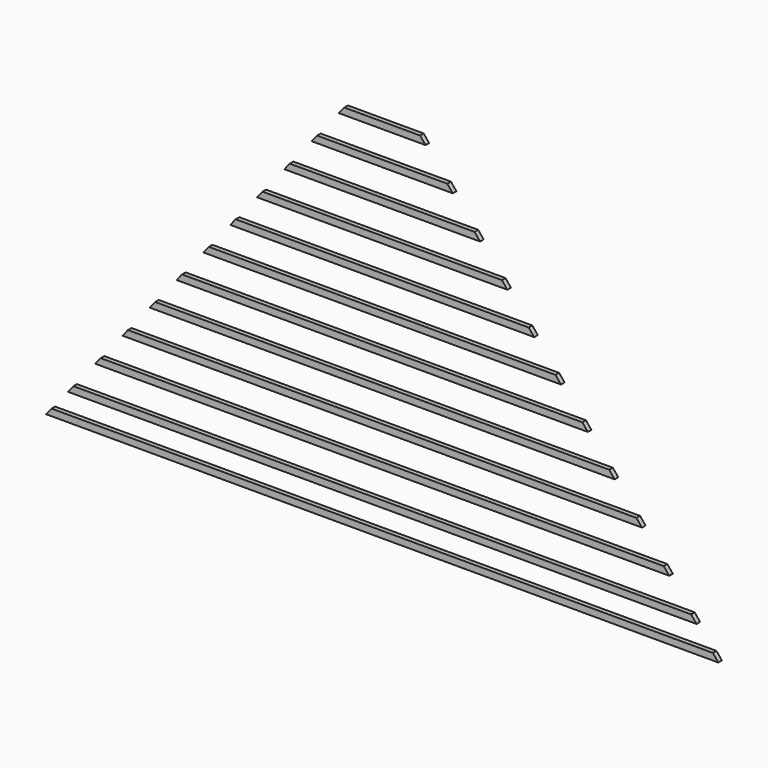
from build123d import *

# Parameters (mm, degrees)
F1_DEPTH = 40


with BuildPart() as f1:
    # F0 (on Front) → F1 (new body)
    with BuildSketch(Plane.XZ):
        Polygon((-338.794827, -414.870203), (-387.555505, -474.870203), (387.140356, -474.870203), (338.379679, -414.870203), (-0.207632, -414.870203), align=None)
        Polygon((630.943743, -774.870203), (582.183065, -714.870203), (-582.598214, -714.870203), (-631.358891, -774.870203), align=None)
        Polygon((-875.162278, -1074.870203), (874.747129, -1074.870203), (825.986452, -1014.870203), (-826.401601, -1014.870203), align=None)
        Polygon((1118.550516, -1374.870203), (1069.789839, -1314.870203), (-1070.204987, -1314.870203), (-1118.965665, -1374.870203), align=None)
        Polygon((1309.529836, -1609.870203), (-1309.944984, -1609.870203), (-1358.705662, -1669.870203), (1358.290513, -1669.870203), align=None)
        Polygon((-1549.684981, -1904.870203), (-1598.445658, -1964.870203), (1598.03051, -1964.870203), (1549.269832, -1904.870203), align=None)
        Polygon((1789.009829, -2199.870203), (-1789.424978, -2199.870203), (-1838.185655, -2259.870203), (1837.770507, -2259.870203), align=None)
        Polygon((2272.553213, -2794.870203), (-2272.968361, -2794.870203), (-2321.729039, -2854.870203), (2321.31389, -2854.870203), align=None)
        Polygon((2516.356599, -3094.870203), (-2516.771748, -3094.870203), (-2565.532425, -3154.870203), (2565.117277, -3154.870203), align=None)
        Polygon((2028.749826, -2494.870203), (-2029.164975, -2494.870203), (-2077.925652, -2554.870203), (2077.510503, -2554.870203), align=None)
        Polygon((2760.159986, -3394.870203), (-2760.575135, -3394.870203), (-2809.335812, -3454.870203), (2808.920663, -3454.870203), align=None)
        Polygon((2955.202695, -3634.870203), (-2955.617844, -3634.870203), (-3004.378521, -3694.870203), (3003.963373, -3694.870203), align=None)
    extrude(amount=F1_DEPTH)


solid = f1.part
